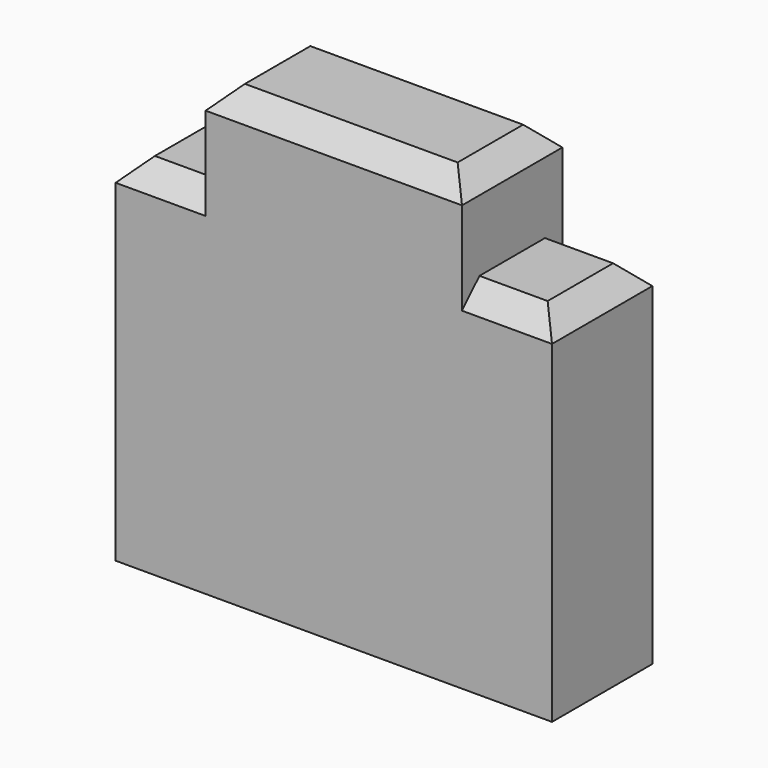
from build123d import *

# Parameters (mm, degrees)
SKETCH008_W     = 4
SKETCH008_H     = 1.15
PAD005_DEPTH    = 4.1
SKETCH009_W     = 0.825
SKETCH009_H     = 0.85
POCKET002_DEPTH = 5
CHAMFER005_SIZE = 0.2


with BuildPart() as part:
    # Sketch008 → Pad005 (new body)
    with BuildSketch(Plane.XY):
        Rectangle(SKETCH008_W, SKETCH008_H)
    extrude(amount=PAD005_DEPTH)

    # Sketch009 (on Face1 of Pad005) → Pocket002 (cut)
    with BuildSketch(Plane(origin=(0, 0.575, 0), x_dir=(-1, 0, 0), z_dir=(0, 1, 0))):
        with Locations((-1.5875, 3.675)):
            Rectangle(SKETCH009_W, SKETCH009_H)
        with Locations((1.5875, 3.675)):
            Rectangle(SKETCH009_W, SKETCH009_H)
    extrude(amount=-POCKET002_DEPTH, mode=Mode.SUBTRACT)

    # Chamfer005
    chamfer005_edges = [part.edges().sort_by_distance(p)[0] for p in [
        (0, 0.575, 4.1),
        (0, -0.575, 4.1),
        (1.5875, 0.575, 3.25),
        (-1.5875, 0.575, 3.25),
        (-1.5875, -0.575, 3.25),
        (1.5875, -0.575, 3.25),
        (2, 0, 3.25),
        (-2, 0, 3.25),
        (1.175, 0, 4.1),
        (-1.175, 0, 4.1),
    ]]
    chamfer(chamfer005_edges, length=CHAMFER005_SIZE)


with BuildPart() as part_1:
    # Body039 placement: moved
    add(part.part.moved(Location((0, 30, 0))))


solid = part_1.part
